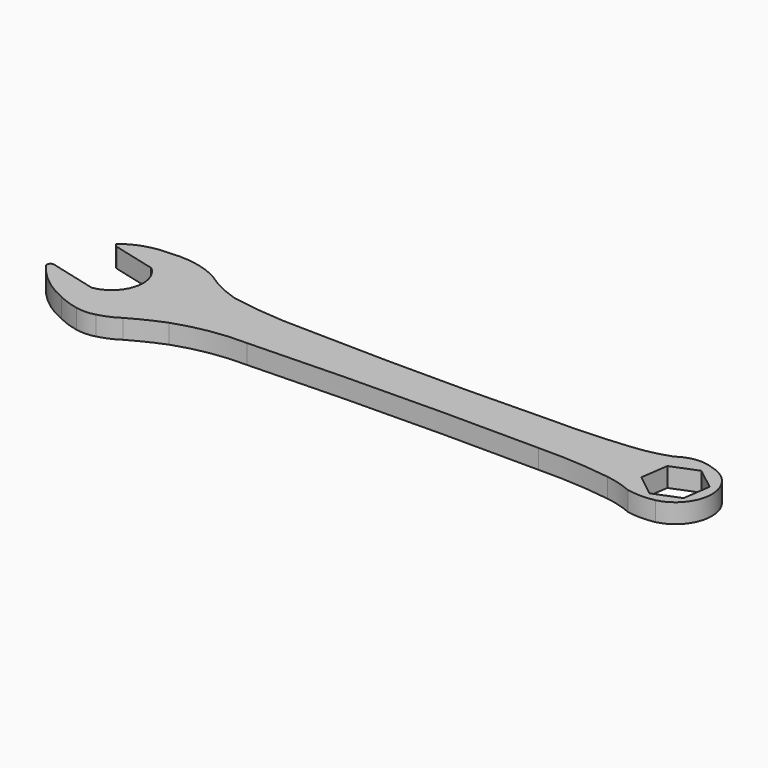
from build123d import *

# Parameters (mm, degrees)
F1_DEPTH = 6.35


with BuildPart() as f1:
    # F0 (on Top) → F1 (new body)
    with BuildSketch(Plane.XY):
        with BuildLine():
            Line((19.963766, 85.768253), (33.883162, 82.176149))
            ThreePointArc((33.883162, 82.176149), (37.161542, 71.464828), (28.771324, 64.042941))
            Line((28.771324, 64.042941), (13.19727, 68.062053))
            ThreePointArc((13.19727, 68.062053), (12.006678, 67.656763), (11.904457, 66.40324))
            ThreePointArc((11.904457, 66.40324), (18.129663, 59.81659), (25.941388, 55.221581))
            ThreePointArc((25.941388, 55.221581), (29.231866, 53.820261), (32.679028, 52.867364))
            ThreePointArc((32.679028, 52.867364), (35.880834, 52.556283), (39.06069, 53.042952))
            ThreePointArc((39.06069, 53.042952), (42.426036, 54.19472), (45.53752, 55.918317))
            ThreePointArc((45.53752, 55.918317), (50.903851, 58.755448), (56.458104, 61.204344))
            ThreePointArc((56.458104, 61.204344), (67.635189, 64.081109), (79.146661, 64.911172))
            ThreePointArc((79.146661, 64.911172), (126.658925, 66.093141), (174.185872, 66.132732))
            ThreePointArc((174.185872, 66.132732), (186.146195, 65.881821), (198.048443, 64.678162))
            ThreePointArc((198.048443, 64.678162), (202.485624, 63.728994), (206.752375, 62.184863))
            ThreePointArc((206.752375, 62.184863), (211.307712, 61.74472), (215.863049, 62.184863))
            ThreePointArc((215.863049, 62.184863), (225.059158, 73.821235), (215.863049, 85.457608))
            ThreePointArc((215.863049, 85.457608), (209.954904, 86.266057), (204.390645, 84.121577))
            ThreePointArc((204.390645, 84.121577), (198.525451, 82.399766), (192.482561, 81.478566))
            ThreePointArc((192.482561, 81.478566), (179.488338, 80.490153), (166.459054, 80.236152))
            ThreePointArc((166.459054, 80.236152), (126.883138, 79.702526), (87.307222, 80.236152))
            ThreePointArc((87.307222, 80.236152), (74.234888, 80.714226), (61.264478, 82.412139))
            ThreePointArc((61.264478, 82.412139), (54.766841, 84.972477), (48.795737, 88.594705))
            ThreePointArc((48.795737, 88.594705), (40.624685, 91.332134), (32.009568, 91.530554))
            ThreePointArc((32.009568, 91.530554), (24.876071, 90.45768), (18.504644, 87.074965))
            ThreePointArc((18.504644, 87.074965), (19.075081, 86.243925), (19.963766, 85.768253))
        make_face()
        Polygon((214.82671, 82.351932), (222.036342, 76.692745), (220.740158, 67.619426), (212.234342, 64.205295), (205.024709, 69.864482), (206.320893, 78.937801), align=None, mode=Mode.SUBTRACT)
    extrude(amount=F1_DEPTH)


solid = f1.part
